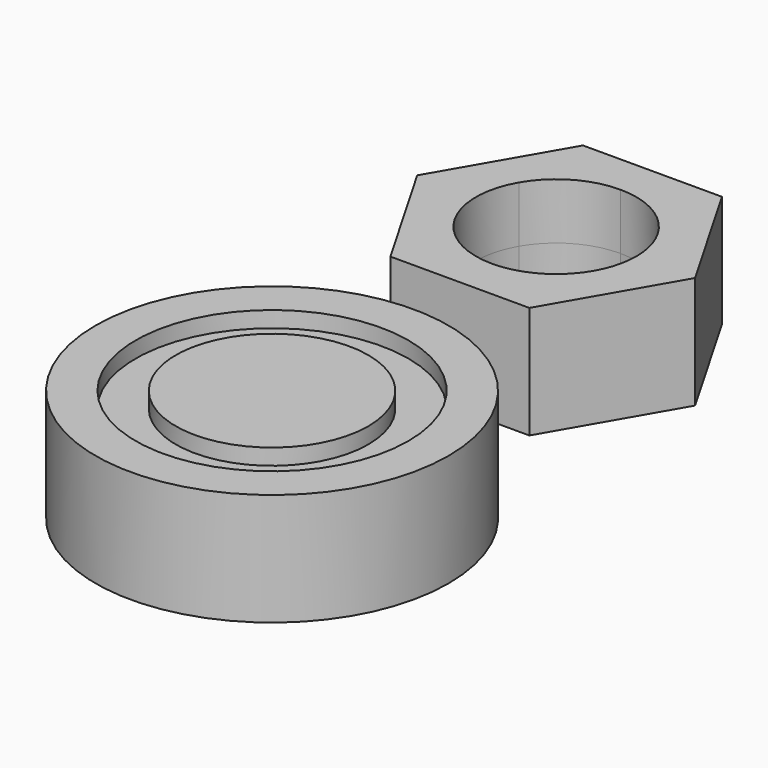
from build123d import *

# Parameters (mm, degrees)
F0_R          = 11
F1_DEPTH      = 3.5
F1_DEPTH_BACK = 3.5
F3_DEPTH      = 3.5
F3_DEPTH_BACK = 3.5
F4_R          = 8.5
F4_R_2        = 6
F5_DEPTH      = 1


with BuildPart() as f1:
    # F0 (on Top) → F1 (new body, two sides)
    with BuildSketch(Plane.XY) as f1_sk:
        Circle(F0_R)
    extrude(amount=F1_DEPTH)
    extrude(f1_sk.sketch, amount=-F1_DEPTH_BACK)

    # F4 (on face) → F5 (cut)
    with BuildSketch(Plane.XY.offset(3.5)):
        Circle(F4_R)
        Circle(F4_R_2, mode=Mode.SUBTRACT)
    extrude(amount=-F5_DEPTH, mode=Mode.SUBTRACT)

    # F6: F1 across plane


with BuildPart() as f3:
    # F2 (on Top) → F3 (new body, two sides)
    with BuildSketch(Plane.XY) as f3_sk:
        Polygon((-4.330127, 14.632354), (4.330127, 14.632354), (8.660254, 22.132354), (4.330127, 29.632354), (-4.330127, 29.632354), (-8.660254, 22.132354), align=None)
        Polygon((4.330127, 19.632354), (2.886751, 17.132354), (0, 17.132354), (-2.886751, 17.132354), (-4.330127, 19.632354), (-5.773503, 22.132354), (-4.330127, 24.632354), (-2.886751, 27.132354), (0, 27.132354), (2.886751, 27.132354), (4.330127, 24.632354), (5.773503, 22.132354), align=None, mode=Mode.SUBTRACT)
        with BuildLine():
            Line((-2.886751, 17.132354), (0, 17.132354))
            ThreePointArc((0, 17.132354), (-2.5, 17.802227), (-4.330127, 19.632354))
            Line((-4.330127, 19.632354), (-2.886751, 17.132354))
        make_face()
        with BuildLine():
            Line((-5.773503, 22.132354), (-4.330127, 19.632354))
            ThreePointArc((-4.330127, 19.632354), (-5, 22.132354), (-4.330127, 24.632354))
            Line((-4.330127, 24.632354), (-5.773503, 22.132354))
        make_face()
        with BuildLine():
            Line((-2.886751, 27.132354), (-4.330127, 24.632354))
            ThreePointArc((-4.330127, 24.632354), (-2.5, 26.462481), (0, 27.132354))
            Line((0, 27.132354), (-2.886751, 27.132354))
        make_face()
        with BuildLine():
            ThreePointArc((0, 27.132354), (2.5, 26.462481), (4.330127, 24.632354))
            Line((4.330127, 24.632354), (2.886751, 27.132354))
            Line((2.886751, 27.132354), (0, 27.132354))
        make_face()
        with BuildLine():
            ThreePointArc((5, 22.132354), (4.829629, 20.838258), (4.330127, 19.632354))
            Line((4.330127, 19.632354), (5.773503, 22.132354))
            Line((5.773503, 22.132354), (4.330127, 24.632354))
            ThreePointArc((4.330127, 24.632354), (4.829629, 23.426449), (5, 22.132354))
        make_face()
        with BuildLine():
            Line((0, 17.132354), (2.886751, 17.132354))
            Line((2.886751, 17.132354), (4.330127, 19.632354))
            ThreePointArc((4.330127, 19.632354), (2.5, 17.802227), (0, 17.132354))
        make_face()
    extrude(amount=F3_DEPTH)
    extrude(f3_sk.sketch, amount=-F3_DEPTH_BACK)


with BuildPart() as f1_1:
    add(f1.part)
    add(f1.part.mirror(Plane.XY), mode=Mode.INTERSECT)


solid = Compound([f3.part, f1_1.part])
